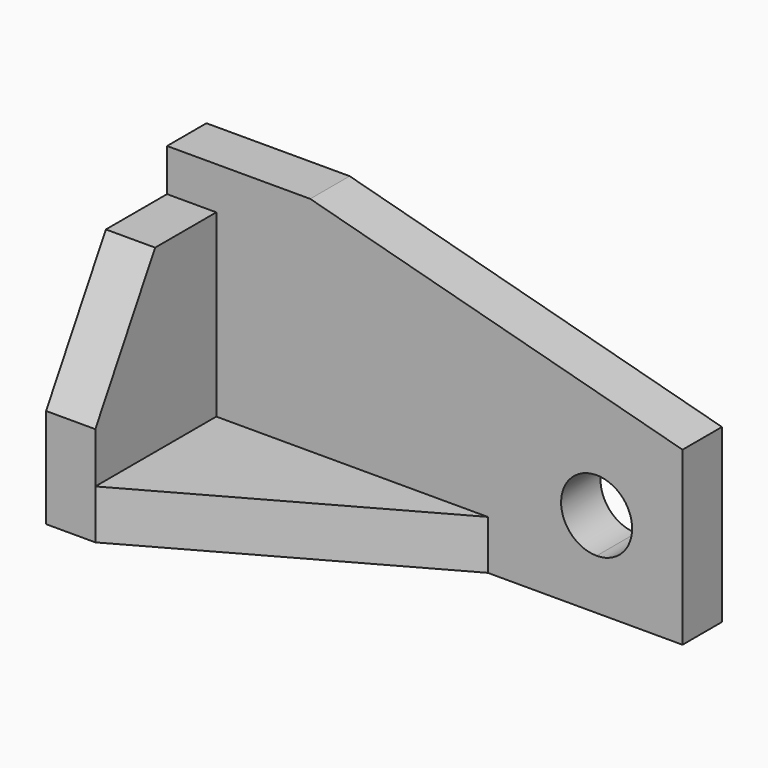
from build123d import *

# Parameters (mm, degrees)
F1_DEPTH  = 10.922
F2_W      = 10.922
F2_H      = 50.8
F3_DEPTH  = 33.528
F4_W      = 60.198
F4_H      = 10.922
F5_DEPTH  = 33.528
F7_DEPTH  = 25.4
F9_DEPTH  = 10.923
F11_DEPTH = 10.923


with BuildPart() as f1:
    # F0 (on Front) → F1 (new body)
    with BuildSketch(Plane.XZ):
        Polygon((-61.109246, 15.510071), (-92.859246, 15.510071), (-92.859246, -44.687929), (21.440754, -44.687929), (21.440754, -6.609135), align=None)
    extrude(amount=F1_DEPTH)

    # F2 (on face) → F3 (join)
    with BuildSketch(Plane.XZ.offset(10.922)):
        with Locations((-87.398246, -19.287929)):
            Rectangle(F2_W, F2_H)
    extrude(amount=F3_DEPTH)

    # F4 (on face) → F5 (join)
    with BuildSketch(Plane.XZ.offset(10.922)):
        with Locations((-51.838246, -39.226929)):
            Rectangle(F4_W, F4_H)
    extrude(amount=F5_DEPTH)

    # F6 (on face) → F7 (cut)
    with BuildSketch(Plane.XY.offset(-33.765929)):
        Polygon((-21.739246, -10.922), (-81.937246, -44.45), (-21.739246, -44.45), align=None)
    extrude(amount=-F7_DEPTH, mode=Mode.SUBTRACT)

    # F8 (on face) → F9 (cut, through all)
    with BuildSketch(Plane.XZ.offset(10.922)):
        with BuildLine():
            ThreePointArc((10.264754, -25.637929), (-3.177005, -20.070171), (2.390754, -33.511929))
            Line((2.390754, -33.511929), (2.390754, -25.637929))
            Line((2.390754, -25.637929), (10.264754, -25.637929))
        make_face()
        with BuildLine():
            Line((2.390754, -25.637929), (2.390754, -33.511929))
            ThreePointArc((2.390754, -33.511929), (7.958513, -31.205688), (10.264754, -25.637929))
            Line((10.264754, -25.637929), (2.390754, -25.637929))
        make_face()
    extrude(amount=-F9_DEPTH, mode=Mode.SUBTRACT)

    # F10 (on face) → F11 (cut, through all)
    with BuildSketch(Plane.YZ.offset(-81.937246)):
        Polygon((-44.45, 6.112071), (-44.45, -22.589929), (-27.878893, 6.112071), align=None)
    extrude(amount=-F11_DEPTH, mode=Mode.SUBTRACT)


solid = f1.part
